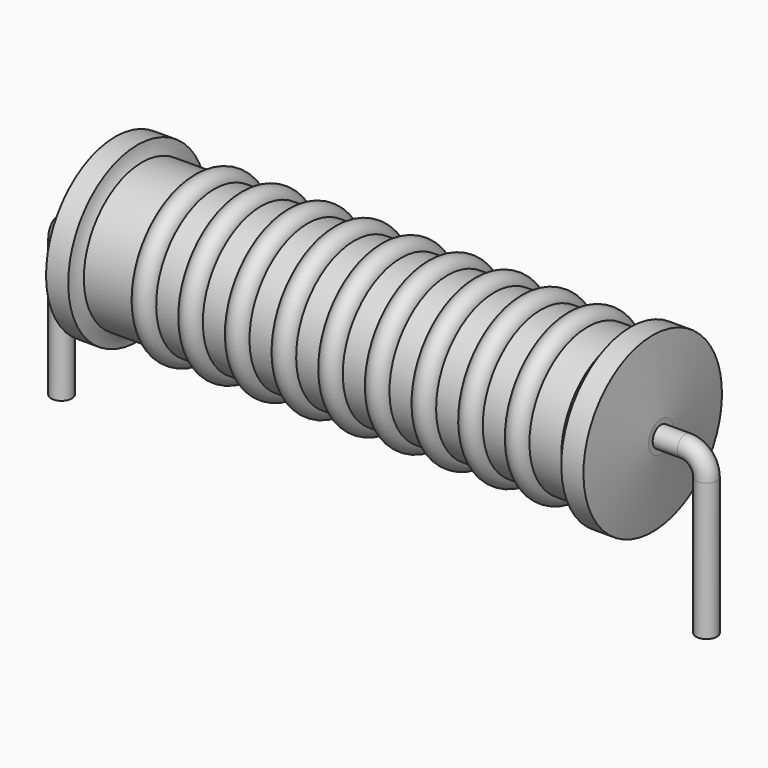
from build123d import *

# Parameters (mm, degrees)
SKETCH_R = 0.45


with BuildPart() as sweep_body:
    # Sweep: sweep along a path in Sketch001
    with BuildLine(Plane.XZ) as sweep_path:
        Line((0, -3), (0, 2.95))
        ThreePointArc((0, 2.95), (0.263601, 3.586393), (0.899992, 3.85))
        Line((0.899992, 3.85), (27.04, 3.85))
        ThreePointArc((27.04, 3.85), (27.676396, 3.586396), (27.94, 2.95))
        Line((27.94, 2.95), (27.94, -3))
    # Sketch → Sweep (sweep)
    with BuildSketch(Plane.XY.offset(-2)):
        Circle(SKETCH_R)
    sweep(path=sweep_path.line)


with BuildPart() as revolution:
    # Sketch002 → Revolution (revolve)
    with BuildSketch(Plane.XZ):
        with BuildLine():
            Line((2.33, 7.6), (3.29, 7.6))
            ThreePointArc((3.29, 7.6), (3.354808, 7.288717), (3.488, 7))
            Line((3.488, 7), (24.17, 7))
            ThreePointArc((24.17, 7), (24.440918, 7.275266), (24.65, 7.6))
            Line((24.65, 7.6), (25.61, 7.6))
            ThreePointArc((25.97, 4.525), (25.793776, 6.062942), (25.61, 7.6))
            Line((25.97, 3.85), (25.97, 4.525))
            Line((1.97, 3.85), (25.97, 3.85))
            Line((1.97, 3.85), (1.97, 4.525))
            ThreePointArc((2.33, 7.6), (2.146224, 6.062942), (1.97, 4.525))
        make_face()
    revolve(axis=Axis((1.97, 0, 3.85), (1, 0, 0)))


with BuildPart() as obj1:
    # Sketch003 → Revolution001 (revolve)
    with BuildSketch(Plane.XZ):
        with BuildLine():
            ThreePointArc((6.631053, 6.904), (6.125789, 7.409263), (5.620526, 6.904))
            Line((4.61, 6.904), (5.620526, 6.904))
            Line((4.61, 6.904), (4.61, 6.154))
            Line((4.61, 6.154), (23.81, 6.154))
            Line((23.81, 6.154), (23.81, 6.904))
            Line((22.799474, 6.904), (23.81, 6.904))
            ThreePointArc((22.799474, 6.904), (22.294211, 7.409263), (21.788947, 6.904))
            Line((20.778421, 6.904), (21.788947, 6.904))
            ThreePointArc((20.778421, 6.904), (20.273158, 7.409263), (19.767895, 6.904))
            Line((18.757368, 6.904), (19.767895, 6.904))
            ThreePointArc((18.757368, 6.904), (18.252105, 7.409263), (17.746842, 6.904))
            Line((16.736316, 6.904), (17.746842, 6.904))
            ThreePointArc((16.736316, 6.904), (16.231053, 7.409263), (15.725789, 6.904))
            Line((14.715263, 6.904), (15.725789, 6.904))
            ThreePointArc((14.715263, 6.904), (14.21, 7.409263), (13.704737, 6.904))
            Line((12.694211, 6.904), (13.704737, 6.904))
            ThreePointArc((12.694211, 6.904), (12.188947, 7.409263), (11.683684, 6.904))
            Line((10.673158, 6.904), (11.683684, 6.904))
            ThreePointArc((10.673158, 6.904), (10.167895, 7.409263), (9.662632, 6.904))
            Line((8.652105, 6.904), (9.662632, 6.904))
            ThreePointArc((8.652105, 6.904), (8.146842, 7.409263), (7.641579, 6.904))
            Line((6.631053, 6.904), (7.641579, 6.904))
        make_face()
    revolve(axis=Axis((2.57, 0, 3.85), (1, 0, 0)))

    # obj1: union Sweep body, Revolution
    add(sweep_body.part)
    add(revolution.part)


solid = obj1.part
